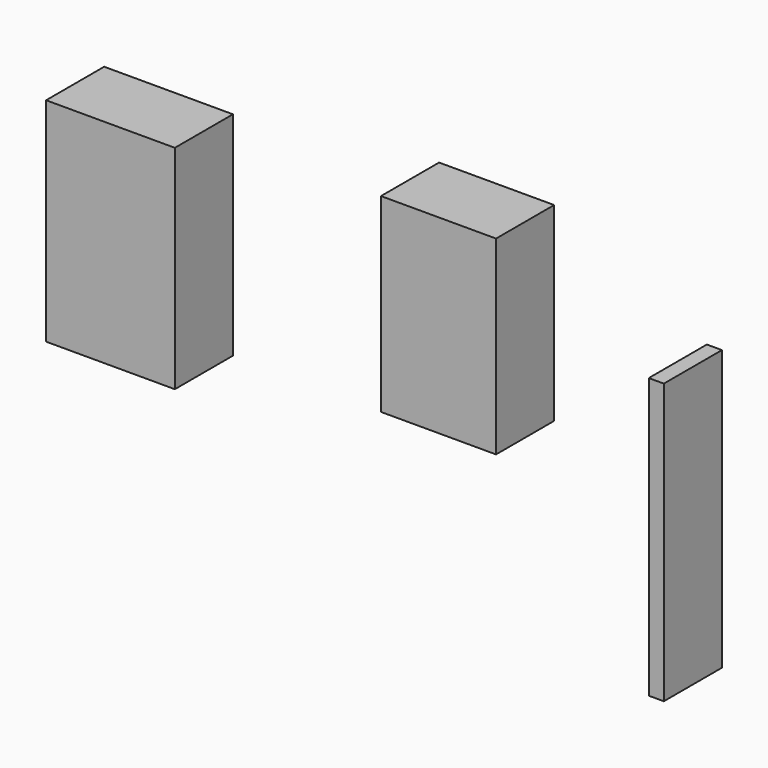
from build123d import *

# Parameters (mm, degrees)
F0_W     = 45.035556
F0_H     = 74.338078
F0_W_2   = 40.24455
F0_H_2   = 66.475965
F0_W_3   = 5.270094
F0_H_3   = 97.820796
F1_DEPTH = 25.4


with BuildPart() as f1:
    # F0 (on Front) → F1 (new body)
    with BuildSketch(Plane.XZ):
        with Locations((-56.294464, 37.169039)):
            Rectangle(F0_W, F0_H)
        with Locations((58.450371, 49.691637)):
            Rectangle(F0_W_2, F0_H_2)
        with Locations((134.627536, 8.440673)):
            Rectangle(F0_W_3, F0_H_3)
        with Locations((-56.294464, 37.169039)):
            Rectangle(F0_W, F0_H)
        with Locations((58.450371, 49.691637)):
            Rectangle(F0_W_2, F0_H_2)
        with Locations((134.627536, 8.440673)):
            Rectangle(F0_W_3, F0_H_3)
    extrude(amount=F1_DEPTH)


solid = f1.part
